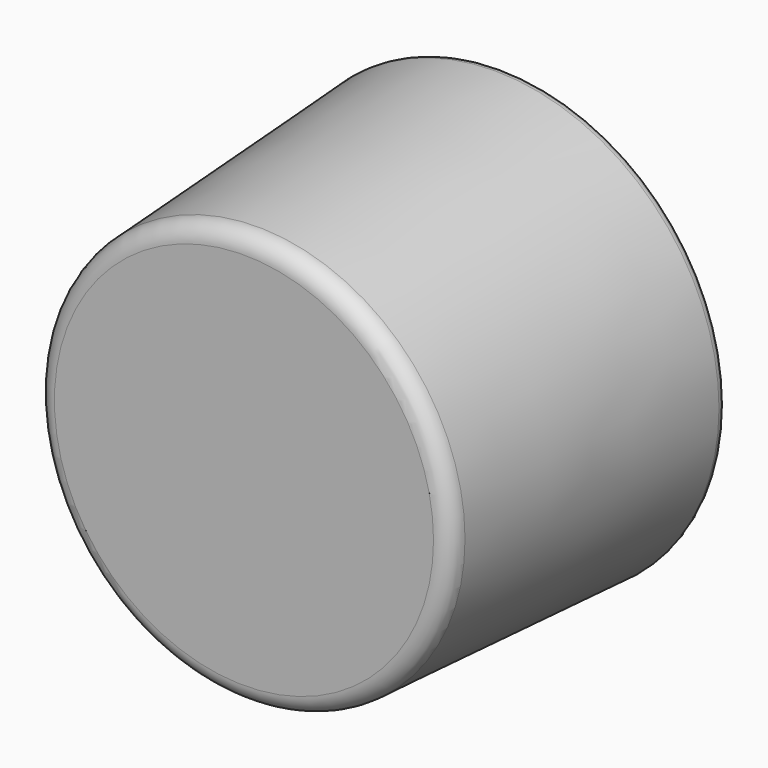
from build123d import *


with BuildPart() as f1:
    # F0 (on Top) → F1 (revolve)
    with BuildSketch(Plane.XY):
        with BuildLine():
            Line((0, 18.980941), (0, -7.019059))
            Line((0, -7.019059), (10.554014, -7.019059))
            ThreePointArc((10.554014, -7.019059), (11.241229, -6.745513), (11.552474, -6.074529))
            Line((11.552474, -6.074529), (12.470681, 10.453206))
            ThreePointArc((12.470681, 10.453206), (12.334678, 10.824549), (11.971451, 10.980941))
            Line((11.971451, 10.980941), (9.5, 10.980941))
            ThreePointArc((9.5, 10.980941), (9.146447, 10.834495), (9, 10.480941))
            Line((9, 10.480941), (9, 1.480941))
            ThreePointArc((9, 1.480941), (8.853553, 1.127388), (8.5, 0.980941))
            Line((8.5, 0.980941), (5, 0.980941))
            ThreePointArc((5, 0.980941), (4.646447, 1.127388), (4.5, 1.480941))
            Line((4.5, 1.480941), (4.5, 2.980941))
            Line((4.5, 2.980941), (3, 2.980941))
            Line((3, 2.980941), (3, 18.980941))
            Line((3, 18.980941), (0, 18.980941))
        make_face()
    revolve(axis=Axis((0, 5.980941, 0), (0, -1, 0)))


solid = f1.part
